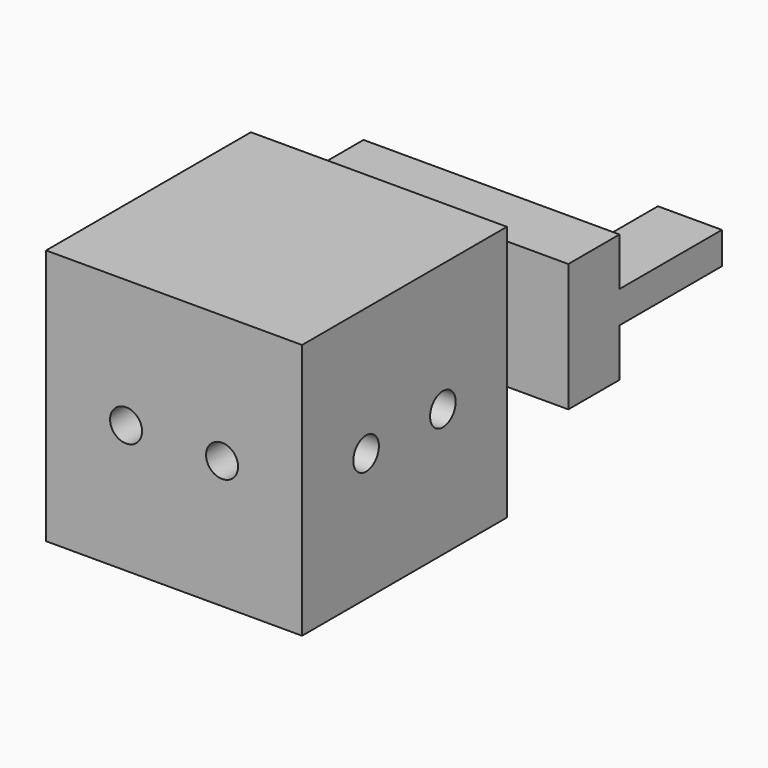
from build123d import *

# Parameters (mm, degrees)
F0_W      = 25.4
F0_H      = 25.4
F0_R      = 1.5875
F1_DEPTH  = 25.4
F2_R      = 2.54
F3_DEPTH  = 7.62
F4_W      = 25.4
F4_H      = 12.7
F5_DEPTH  = 6.35
F6_W      = 6.35
F6_H      = 3.175
F7_DEPTH  = 12.7
F8_DEPTH  = 19.05
F9_R      = 1.5875
F10_DEPTH = 19.05


with BuildPart() as f1:
    # F0 (on Front) → F1 (new body)
    with BuildSketch(Plane.XZ):
        Rectangle(F0_W, F0_H)
        with Locations((-4.7625, 0)):
            Circle(F0_R, mode=Mode.SUBTRACT)
        with Locations((4.7625, 0)):
            Circle(F0_R, mode=Mode.SUBTRACT)
        with Locations((-4.7625, 0)):
            Circle(F0_R)
        with Locations((4.7625, 0)):
            Circle(F0_R)
    extrude(amount=-F1_DEPTH)

    # F2 (on face) → F3 (join)
    with BuildSketch(Plane(origin=(0, 25.4, 0), x_dir=(-1, 0, 0), z_dir=(0, 1, 0))):
        Circle(F2_R)
    extrude(amount=F3_DEPTH)

    # F4 (on face) → F5 (join)
    with BuildSketch(Plane(origin=(0, 33.02, 0), x_dir=(-1, 0, 0), z_dir=(0, 1, 0))):
        Rectangle(F4_W, F4_H)
    extrude(amount=F5_DEPTH)

    # F6 (on face) → F7 (join)
    with BuildSketch(Plane(origin=(0, 39.37, 0), x_dir=(-1, 0, 0), z_dir=(0, 1, 0))):
        with Locations((-9.525, 0)):
            Rectangle(F6_W, F6_H)
    extrude(amount=F7_DEPTH)

    # F0 (on Front) → F8 (cut)
    with BuildSketch(Plane.XZ):
        with Locations((-4.7625, 0)):
            Circle(F0_R)
        with Locations((4.7625, 0)):
            Circle(F0_R)
    extrude(amount=-F8_DEPTH, mode=Mode.SUBTRACT)

    # F9 (on face) → F10 (cut)
    with BuildSketch(Plane.YZ.offset(12.7)):
        with Locations((7.9375, 0)):
            Circle(F9_R)
        with Locations((17.4625, 0)):
            Circle(F9_R)
    extrude(amount=-F10_DEPTH, mode=Mode.SUBTRACT)


solid = f1.part
